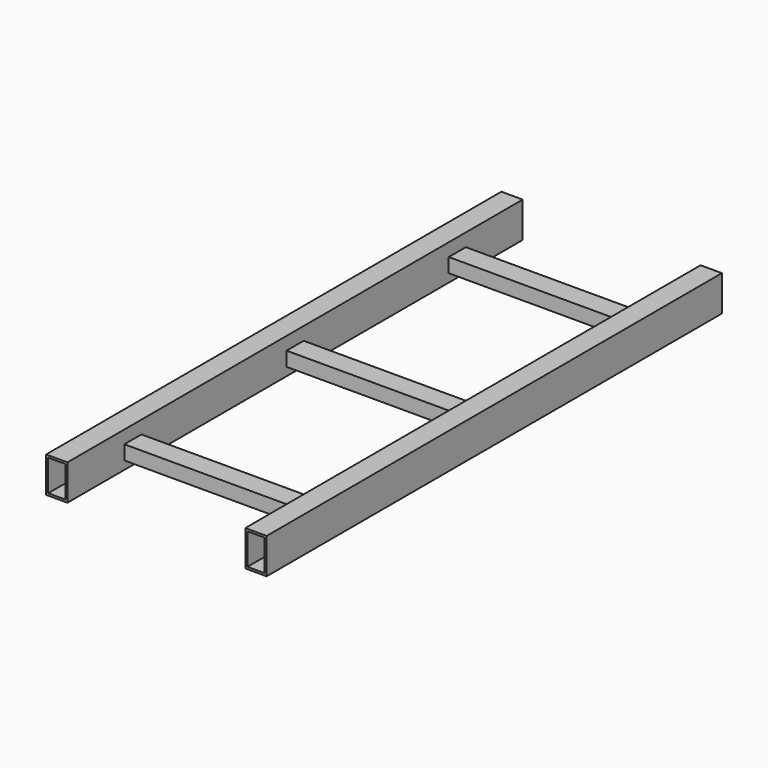
from build123d import *

# Parameters (mm, degrees)
F0_W     = 7.62
F0_H     = 12.7
F0_W_2   = 6.096
F0_H_2   = 11.176
F1_DEPTH = 101.6
F2_W     = 7.62
F2_H     = 5.08
F3_DEPTH = 63.5


with BuildPart() as f1:
    # F0 (on Front) → F1 (new body, symmetric)
    with BuildSketch(Plane.XZ):
        with Locations((-35.56, -5.987658)):
            Rectangle(F0_W, F0_H)
        with Locations((-35.56, -5.987658)):
            Rectangle(F0_W_2, F0_H_2, mode=Mode.SUBTRACT)
        with Locations((35.56, -5.987658)):
            Rectangle(F0_W, F0_H)
        with Locations((35.56, -5.987658)):
            Rectangle(F0_W_2, F0_H_2, mode=Mode.SUBTRACT)
    extrude(amount=F1_DEPTH, both=True)


with BuildPart() as f3:
    # F2 (on face) → F3 (new body)
    with BuildSketch(Plane.YZ.offset(-31.75)):
        with Locations((-72.39, -6.818854)):
            Rectangle(F2_W, F2_H)
        with Locations((0, -6.818854)):
            Rectangle(F2_W, F2_H)
        with Locations((72.39, -6.818854)):
            Rectangle(F2_W, F2_H)
    extrude(amount=F3_DEPTH)


solid = Compound([f1.part, f3.part])
